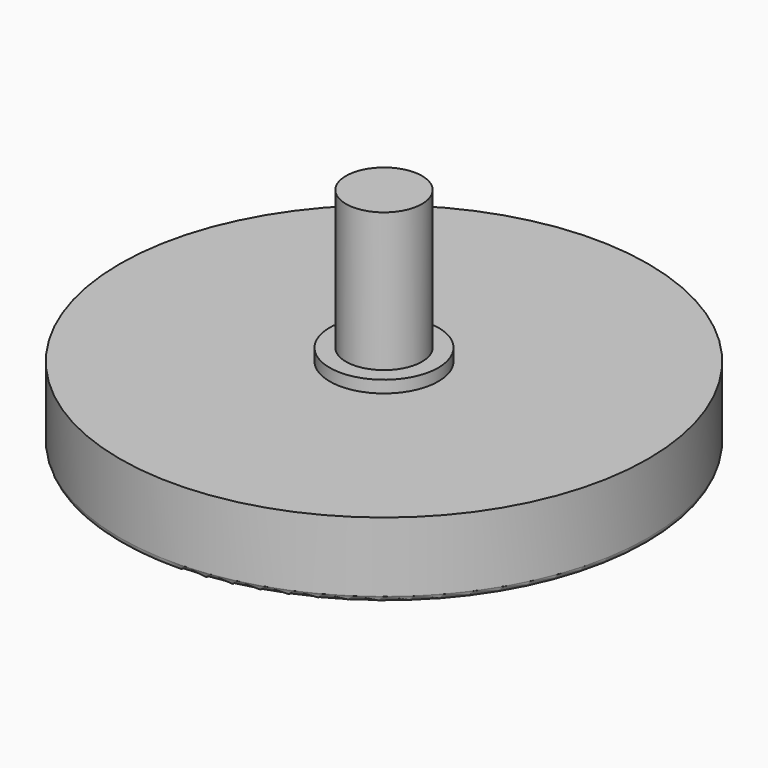
from build123d import *

# Parameters (mm, degrees)
F0_R     = 1.6002
F1_DEPTH = 9.525
F0_R_2   = 11.1125
F2_DEPTH = 3.175
F3_R     = 0.254
F4_R     = 2.286
F4_R_2   = 1.6002
F5_DEPTH = 6.35
F6_R     = 2.286
F6_R_2   = 1.6002
F7_DEPTH = 5.842


with BuildPart() as f1:
    # F0 (on Top) → F1 (new body)
    with BuildSketch(Plane.XY):
        Circle(F0_R)
    extrude(amount=F1_DEPTH)

    # F0 (on Top) → F2 (join)
    with BuildSketch(Plane.XY):
        Circle(F0_R_2)
        Circle(F0_R, mode=Mode.SUBTRACT)
    extrude(amount=F2_DEPTH)

    # F3
    f3_edges = [f1.edges().sort_by_distance(p)[0] for p in [
        (-11.1125, 0, 0),
    ]]
    fillet(f3_edges, radius=F3_R)

    # F4 (on face) → F5 (join)
    with BuildSketch(Plane.XY.offset(9.525)):
        Circle(F4_R)
        Circle(F4_R_2, mode=Mode.SUBTRACT)
    extrude(amount=-F5_DEPTH)

    # F6 (on face) → F7 (cut)
    with BuildSketch(Plane.XY.offset(9.525)):
        Circle(F6_R)
        Circle(F6_R_2, mode=Mode.SUBTRACT)
    extrude(amount=-F7_DEPTH, mode=Mode.SUBTRACT)


solid = f1.part
